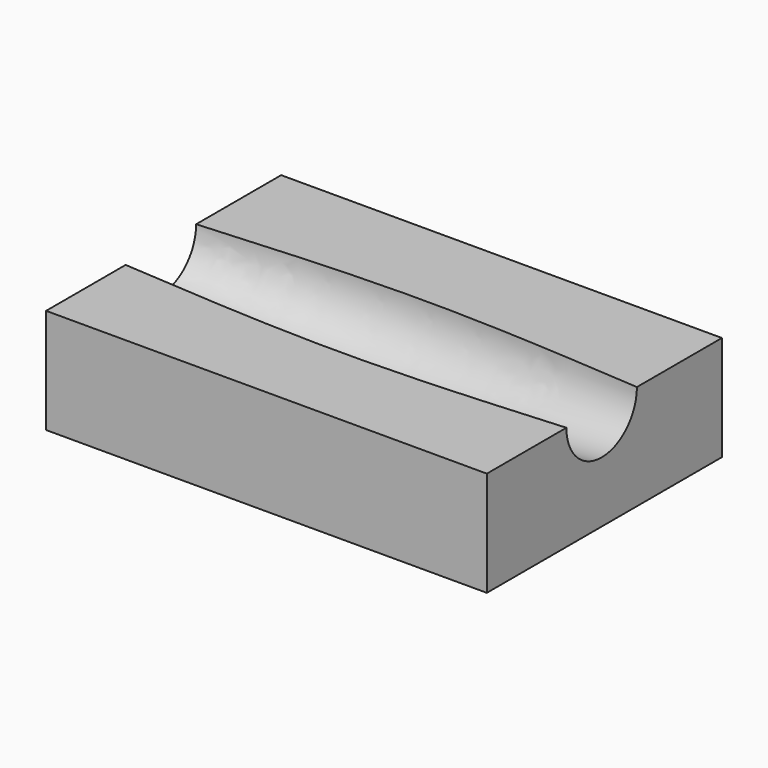
from build123d import *

# Parameters (mm, degrees)
F1_W     = 105
F1_H     = 70
F2_DEPTH = 25
F4_ANGLE = -180


with BuildPart() as f2:
    # F1 (on Top) → F2 (new body)
    with BuildSketch(Plane.XY):
        with Locations((0, 0.815216)):
            Rectangle(F1_W, F1_H)
    extrude(amount=-F2_DEPTH)

    # F0 (on Front) → F3 (revolve, cut)
    with BuildSketch(Plane.XZ):
        with BuildLine():
            Line((-52.5, 10.5), (-52.5, 0))
            Line((-52.5, 0), (52.5, 0))
            Line((52.5, 0), (52.5, 10.5))
            add(Edge.make_bspline(
                [(-52.5, 10.5), (-35, 11.75), (0, 14.25), (35, 11.75), (52.5, 10.5)],
                knots=[0, 0, 0, 0, 52.55949, 105.11898, 105.11898, 105.11898, 105.11898], degree=3))
        make_face()
    revolve(axis=Axis((4.963639, 0, 0), (1, 0, 0)), mode=Mode.SUBTRACT)


with BuildPart() as f4_1:
    # F4: copy of F2
    add(f2.part.rotate(Axis((52.5, 0, 0), (1, 0, 0)), F4_ANGLE))


solid = f2.part
